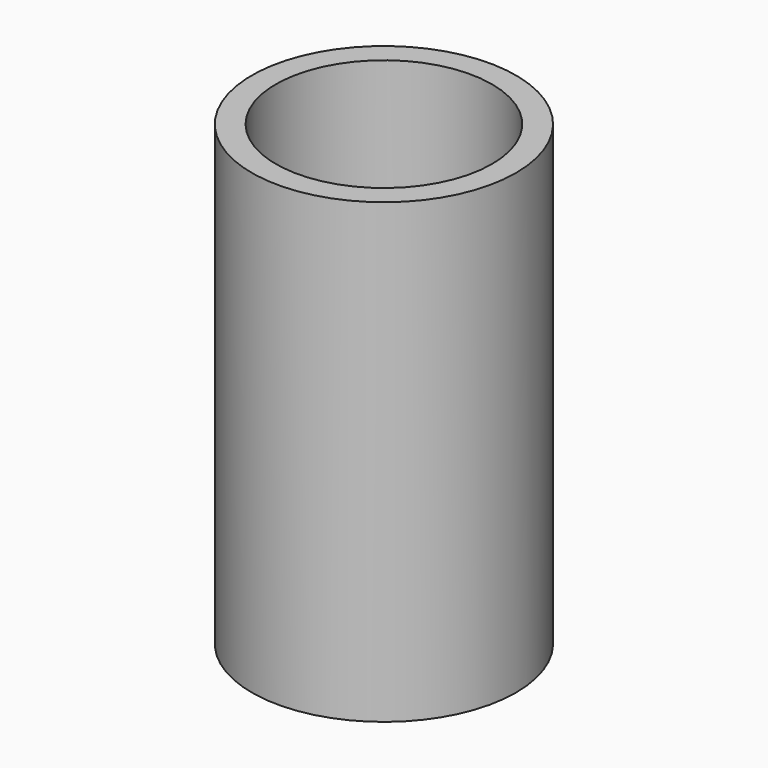
from build123d import *

# Parameters (mm, degrees)
F0_R      = 5.5
F1_DEPTH  = 19.05
F2_R      = 4.499991
F3_DEPTH  = 76.708
F4_W      = 0.485978
F4_H      = 6.280332
F5_DEPTH  = 0.762
F6_W      = 0.485978
F6_H      = 8.03733
F7_DEPTH  = 0.762
F8_W      = 0.371876
F8_H      = 9.338215
F9_DEPTH  = 0.762
F10_W     = 0.454515
F10_H     = 10.123286
F11_DEPTH = 0.762
F12_W     = 0.371876
F12_H     = 9.958009
F13_DEPTH = 0.762
F14_W     = 0.495835
F14_H     = 9.503493
F15_DEPTH = 0.762
F16_W     = 0.486436
F16_H     = 8.651616
F17_DEPTH = 0.762
F18_W     = 0.521182
F18_H     = 7.053327
F19_DEPTH = 0.762
F20_W     = 6.751313
F20_H     = 0.538448
F21_DEPTH = 0.762
F22_W     = 8.288373
F22_H     = 0.397597
F23_DEPTH = 0.762
F24_W     = 9.878763
F24_H     = 0.428182
F25_DEPTH = 0.762
F26_W     = 9.948163
F26_H     = 0.489871
F27_DEPTH = 0.762
F28_W     = 9.515634
F28_H     = 0.519034
F29_DEPTH = 0.762
F30_W     = 8.866841
F30_H     = 0.475782
F31_DEPTH = 0.762
F32_W     = 6.444679
F32_H     = 0.346023
F33_DEPTH = 0.762


with BuildPart() as f1:
    # F0 (on Top) → F1 (new body)
    with BuildSketch(Plane.XY):
        Circle(F0_R)
    extrude(amount=F1_DEPTH)

    # F2 (on Top) → F3 (cut)
    with BuildSketch(Plane.XY):
        Circle(F2_R)
    extrude(amount=F3_DEPTH, mode=Mode.SUBTRACT)

    # F4 (on Top) → F5 (join)
    with BuildSketch(Plane.XY):
        with Locations((-4.024304, 0.004935)):
            Rectangle(F4_W, F4_H)
    extrude(amount=F5_DEPTH)

    # F6 (on Top) → F7 (join)
    with BuildSketch(Plane.XY):
        with Locations((-2.790667, 0.023627)):
            Rectangle(F6_W, F6_H)
    extrude(amount=F7_DEPTH)

    # F8 (on Top) → F9 (join)
    with BuildSketch(Plane.XY):
        with Locations((-1.778112, 0.074286)):
            Rectangle(F8_W, F8_H)
    extrude(amount=F9_DEPTH)

    # F10 (on Top) → F11 (join)
    with BuildSketch(Plane.XY):
        with Locations((-0.621165, -0.070333)):
            Rectangle(F10_W, F10_H)
    extrude(amount=F11_DEPTH)

    # F12 (on Top) → F13 (join)
    with BuildSketch(Plane.XY):
        with Locations((0.535782, -0.029014)):
            Rectangle(F12_W, F12_H)
    extrude(amount=F13_DEPTH)

    # F14 (on Top) → F15 (join)
    with BuildSketch(Plane.XY):
        with Locations((1.630749, -0.132312)):
            Rectangle(F14_W, F14_H)
    extrude(amount=F15_DEPTH)

    # F16 (on Top) → F17 (join)
    with BuildSketch(Plane.XY):
        with Locations((2.708646, -0.145055)):
            Rectangle(F16_W, F16_H)
    extrude(amount=F17_DEPTH)

    # F18 (on Top) → F19 (join)
    with BuildSketch(Plane.XY):
        with Locations((3.664146, -0.179801)):
            Rectangle(F18_W, F18_H)
    extrude(amount=F19_DEPTH)

    # F20 (on Top) → F21 (join)
    with BuildSketch(Plane.XY):
        with Locations((-0.047239, -3.837227)):
            Rectangle(F20_W, F20_H)
    extrude(amount=F21_DEPTH)

    # F22 (on Top) → F23 (join)
    with BuildSketch(Plane.XY):
        with Locations((0.064818, -2.492352)):
            Rectangle(F22_W, F22_H)
    extrude(amount=F23_DEPTH)

    # F24 (on Top) → F25 (join)
    with BuildSketch(Plane.XY):
        with Locations((0.064818, -1.284268)):
            Rectangle(F24_W, F24_H)
    extrude(amount=F25_DEPTH)

    # F26 (on Top) → F27 (join)
    with BuildSketch(Plane.XY):
        with Locations((-0.002149, 0.244936)):
            Rectangle(F26_W, F26_H)
    extrude(amount=F27_DEPTH)

    # F28 (on Top) → F29 (join)
    with BuildSketch(Plane.XY):
        with Locations((0.041104, 1.484687)):
            Rectangle(F28_W, F28_H)
    extrude(amount=F29_DEPTH)

    # F30 (on Top) → F31 (join)
    with BuildSketch(Plane.XY):
        with Locations((0.019477, 2.544383)):
            Rectangle(F30_W, F30_H)
    extrude(amount=F31_DEPTH)

    # F32 (on Top) → F33 (join)
    with BuildSketch(Plane.XY):
        with Locations((0.062731, 3.820342)):
            Rectangle(F32_W, F32_H)
    extrude(amount=F33_DEPTH)


solid = f1.part
